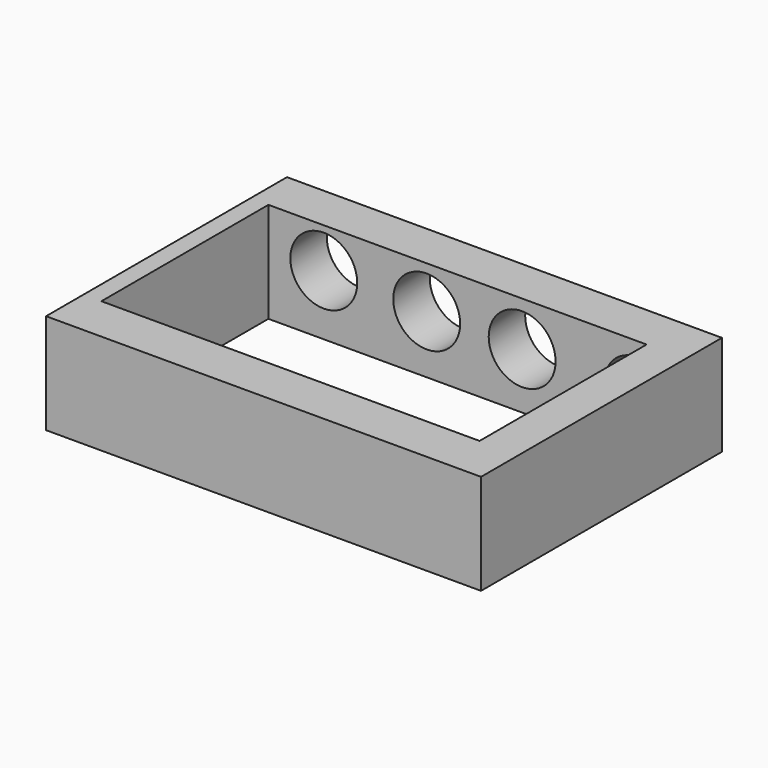
from build123d import *

# Parameters (mm, degrees)
F0_W      = 330.2
F0_H      = 228.6
F1_DEPTH  = 76.2
F4_W      = 287.104944
F4_H      = 158.488579
F5_DEPTH  = 127
F2_R      = 25.4
F6_DEPTH  = 76.2
F6_FACE_R = 25.4
F7_DEPTH  = 152.4


with BuildPart() as f1:
    # F0 (on Top) → F1 (new body)
    with BuildSketch(Plane.XY):
        with Locations((17.809838, 37.883661)):
            Rectangle(F0_W, F0_H)
    extrude(amount=F1_DEPTH)

    # F4 (on face) → F5 (cut)
    with BuildSketch(Plane.XY.offset(76.2)):
        with Locations((9.872635, 38.312387)):
            Rectangle(F4_W, F4_H)
    extrude(amount=-F5_DEPTH, mode=Mode.SUBTRACT)

    # F2 (on face) → F6 (join)
    with BuildSketch(Plane(origin=(0, 152.183661, 0), x_dir=(-1, 0, 0), z_dir=(0, 1, 0))):
        with Locations((-146.609987, 40.1991)):
            Circle(F2_R)
        with Locations((-58.958468, 42.370036)):
            Circle(F2_R)
        with Locations((13.496502, 43.998241)):
            Circle(F2_R)
        with Locations((91.650177, 45.897806)):
            Circle(F2_R)
    extrude(amount=F6_DEPTH)

    # F6_face (on face) → F7 (cut)
    with BuildSketch(Plane(origin=(146.609987, 228.383661, 40.1991), x_dir=(-1, 0, 0), z_dir=(0, 1, 0))):
        Circle(F6_FACE_R)
        with Locations((87.651519, 2.170936)):
            Circle(F6_FACE_R)
        with Locations((160.106489, 3.799141)):
            Circle(F6_FACE_R)
        with Locations((238.260164, 5.698706)):
            Circle(F6_FACE_R)
    extrude(amount=-F7_DEPTH, mode=Mode.SUBTRACT)


solid = f1.part
